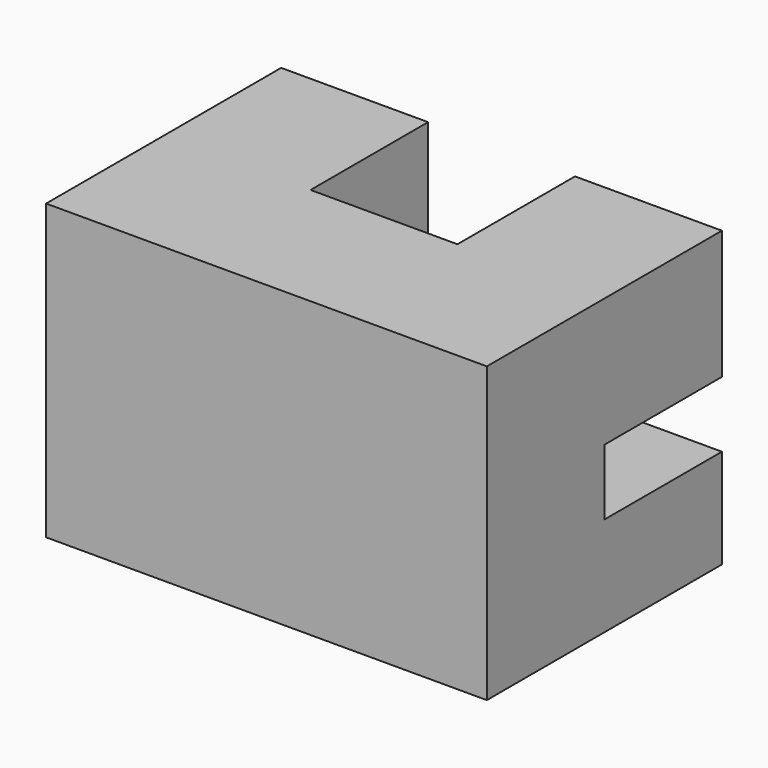
from build123d import *

# Parameters (mm, degrees)
F1_DEPTH = 76.2
F3_DEPTH = 38.1


with BuildPart() as f1:
    # F0 (on Top) → F1 (new body)
    with BuildSketch(Plane.XY):
        Polygon((-19.342009, 43.308758), (-57.442009, 43.308758), (-57.442009, -32.891242), (56.857991, -32.891242), (56.857991, 43.308758), (18.757991, 43.308758), (18.757991, 5.208758), (-19.342009, 5.208758), align=None)
    extrude(amount=-F1_DEPTH)

    # F2 (on face) → F3 (cut)
    with BuildSketch(Plane(origin=(0, 43.308758, 0), x_dir=(-1, 0, 0), z_dir=(0, 1, 0))):
        Polygon((-18.757991, -50.457798), (-18.757991, -33.375844), (-56.857991, -33.375844), (-56.857991, -34.49871), (-56.857991, -50.457798), align=None)
    extrude(amount=-F3_DEPTH, mode=Mode.SUBTRACT)


solid = f1.part
